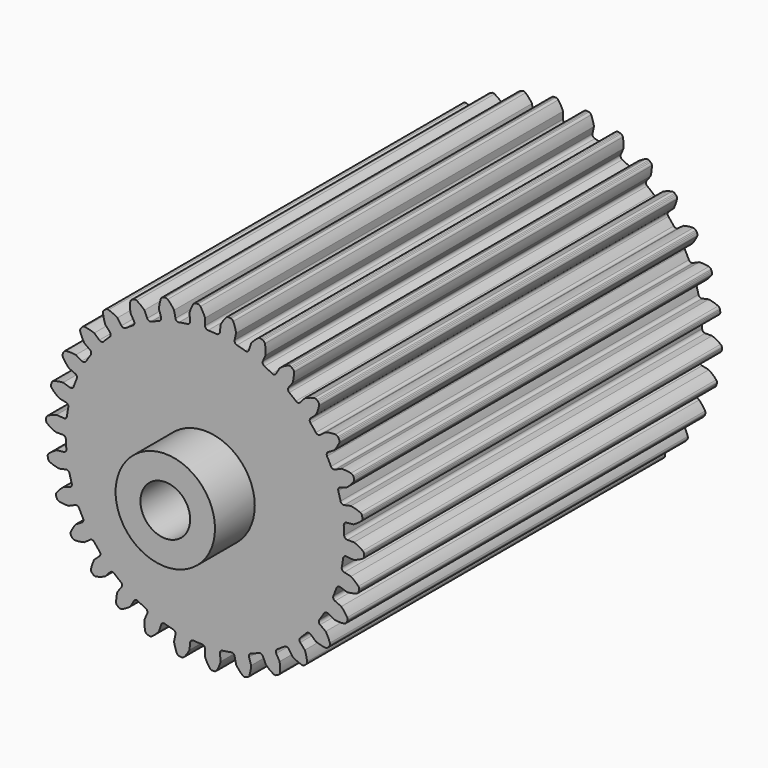
from build123d import *

# Parameters (mm, degrees)
F1_DEPTH  = 114.3
F2_R      = 12.7
F2_R_2    = 6.35
F3_DEPTH  = 12.7
F3_FACE_R = 6.35
F4_DEPTH  = 114.301


with BuildPart() as f1:
    # F0 (on Front) → F1 (new body)
    with BuildSketch(Plane.XZ):
        with BuildLine():
            ThreePointArc((-3.798446, 36.139802), (-3.964276, 35.568627), (-4.482282, 35.276377))
            ThreePointArc((-4.482282, 35.276377), (-5.56281, 35.122197), (-6.638096, 34.934929))
            ThreePointArc((-6.638096, 34.934929), (-9.203605, 34.348322), (-11.718705, 33.573584))
            ThreePointArc((-11.718705, 33.573584), (-12.743564, 33.19812), (-13.756418, 32.791379))
            ThreePointArc((-13.756418, 32.791379), (-16.143902, 31.684192), (-18.442964, 30.403465))
            ThreePointArc((-18.442964, 30.403465), (-19.367364, 29.823125), (-20.273518, 29.214689))
            ThreePointArc((-20.273518, 29.214689), (-22.378633, 27.63531), (-24.361176, 25.904569))
            ThreePointArc((-24.361176, 25.904569), (-25.144717, 25.144717), (-25.904569, 24.361176))
            ThreePointArc((-25.904569, 24.361176), (-27.63531, 22.378633), (-29.214689, 20.273518))
            ThreePointArc((-29.214689, 20.273518), (-29.823125, 19.367364), (-30.403465, 18.442964))
            ThreePointArc((-30.403465, 18.442964), (-31.684192, 16.143902), (-32.791379, 13.756418))
            ThreePointArc((-32.791379, 13.756418), (-33.19812, 12.743564), (-33.573584, 11.718705))
            ThreePointArc((-33.573584, 11.718705), (-34.348322, 9.203605), (-34.934929, 6.638096))
            ThreePointArc((-34.934929, 6.638096), (-35.122197, 5.56281), (-35.276377, 4.482282))
            ThreePointArc((-35.276377, 4.482282), (-35.511266, 1.861067), (-35.551655, -0.770342))
            ThreePointArc((-35.551655, -0.770342), (-35.511266, -1.861067), (-35.437422, -2.950037))
            ThreePointArc((-35.437422, -2.950037), (-35.122197, -5.56281), (-34.614603, -8.145113))
            ThreePointArc((-34.614603, -8.145113), (-34.348322, -9.203605), (-34.049682, -10.253426))
            ThreePointArc((-34.049682, -10.253426), (-33.19812, -12.743564), (-32.164726, -15.163904))
            ThreePointArc((-32.164726, -15.163904), (-31.684192, -16.143902), (-31.173808, -17.108691))
            ThreePointArc((-31.173808, -17.108691), (-29.823125, -19.367364), (-28.309097, -21.519959))
            ThreePointArc((-28.309097, -21.519959), (-27.63531, -22.378633), (-26.935488, -23.216224))
            ThreePointArc((-26.935488, -23.216224), (-25.144717, -25.144717), (-23.216224, -26.935488))
            ThreePointArc((-23.216224, -26.935488), (-22.378633, -27.63531), (-21.519959, -28.309097))
            ThreePointArc((-21.519959, -28.309097), (-19.367364, -29.823125), (-17.108691, -31.173808))
            ThreePointArc((-17.108691, -31.173808), (-16.143902, -31.684192), (-15.163904, -32.164726))
            ThreePointArc((-15.163904, -32.164726), (-12.743564, -33.19812), (-10.253426, -34.049682))
            ThreePointArc((-10.253426, -34.049682), (-9.203605, -34.348322), (-8.145113, -34.614603))
            ThreePointArc((-8.145113, -34.614603), (-5.56281, -35.122197), (-2.950037, -35.437422))
            ThreePointArc((-2.950037, -35.437422), (-1.861067, -35.511266), (-0.770342, -35.551655))
            ThreePointArc((-0.770342, -35.551655), (1.861067, -35.511266), (4.482282, -35.276377))
            ThreePointArc((4.482282, -35.276377), (5.56281, -35.122197), (6.638096, -34.934929))
            ThreePointArc((6.638096, -34.934929), (9.203605, -34.348322), (11.718705, -33.573584))
            ThreePointArc((11.718705, -33.573584), (12.743564, -33.19812), (13.756418, -32.791379))
            ThreePointArc((13.756418, -32.791379), (16.143902, -31.684192), (18.442964, -30.403465))
            ThreePointArc((18.442964, -30.403465), (19.367364, -29.823125), (20.273518, -29.214689))
            ThreePointArc((20.273518, -29.214689), (22.378633, -27.63531), (24.361176, -25.904569))
            ThreePointArc((24.361176, -25.904569), (25.144717, -25.144717), (25.904569, -24.361176))
            ThreePointArc((25.904569, -24.361176), (27.63531, -22.378633), (29.214689, -20.273518))
            ThreePointArc((29.214689, -20.273518), (29.823125, -19.367364), (30.403465, -18.442964))
            ThreePointArc((30.403465, -18.442964), (31.684192, -16.143902), (32.791379, -13.756418))
            ThreePointArc((32.791379, -13.756418), (33.19812, -12.743564), (33.573584, -11.718705))
            ThreePointArc((33.573584, -11.718705), (34.348322, -9.203605), (34.934929, -6.638096))
            ThreePointArc((34.934929, -6.638096), (35.122197, -5.56281), (35.276377, -4.482282))
            ThreePointArc((35.276377, -4.482282), (35.511266, -1.861067), (35.551655, 0.770342))
            ThreePointArc((35.551655, 0.770342), (35.511266, 1.861067), (35.437422, 2.950037))
            ThreePointArc((35.437422, 2.950037), (35.122197, 5.56281), (34.614603, 8.145113))
            ThreePointArc((34.614603, 8.145113), (34.348322, 9.203605), (34.049682, 10.253426))
            ThreePointArc((34.049682, 10.253426), (33.19812, 12.743564), (32.164726, 15.163904))
            ThreePointArc((32.164726, 15.163904), (31.684192, 16.143902), (31.173808, 17.108691))
            ThreePointArc((31.173808, 17.108691), (29.823125, 19.367364), (28.309097, 21.519959))
            ThreePointArc((28.309097, 21.519959), (27.63531, 22.378633), (26.935488, 23.216224))
            ThreePointArc((26.935488, 23.216224), (25.144717, 25.144717), (23.216224, 26.935488))
            ThreePointArc((23.216224, 26.935488), (22.378633, 27.63531), (21.519959, 28.309097))
            ThreePointArc((21.519959, 28.309097), (19.367364, 29.823125), (17.108691, 31.173808))
            ThreePointArc((17.108691, 31.173808), (16.143902, 31.684192), (15.163904, 32.164726))
            ThreePointArc((15.163904, 32.164726), (12.743564, 33.19812), (10.253426, 34.049682))
            ThreePointArc((10.253426, 34.049682), (9.203605, 34.348322), (8.145113, 34.614603))
            ThreePointArc((8.145113, 34.614603), (5.56281, 35.122197), (2.950037, 35.437422))
            ThreePointArc((2.950037, 35.437422), (1.861067, 35.511266), (0.770342, 35.551655))
            ThreePointArc((0.770342, 35.551655), (0.224626, 35.788158), (0, 36.33887))
            Line((0, 36.33887), (0, 38.1))
            ThreePointArc((0, 38.1), (-0.524228, 39.234637), (-1.19251, 40.290864))
            ThreePointArc((-1.19251, 40.290864), (-1.471894, 40.528951), (-1.828853, 40.614511))
            Line((-1.828853, 40.614511), (-2.128516, 40.614511))
            Line((-2.128516, 40.614511), (-2.426538, 40.583188))
            ThreePointArc((-2.426538, 40.583188), (-2.772598, 40.460784), (-3.025564, 40.194798))
            ThreePointArc((-3.025564, 40.194798), (-3.57978, 39.074503), (-3.982534, 37.891284))
            Line((-3.982534, 37.891284), (-3.798446, 36.139802))
        make_face()
        with BuildLine():
            ThreePointArc((-11.718705, 33.573584), (-9.203605, 34.348322), (-6.638096, 34.934929))
            ThreePointArc((-6.638096, 34.934929), (-7.221059, 35.052803), (-7.555276, 35.544779))
            Line((-7.555276, 35.544779), (-7.921435, 37.267424))
            ThreePointArc((-7.921435, 37.267424), (-8.670112, 38.268273), (-9.543393, 39.162475))
            ThreePointArc((-9.543393, 39.162475), (-9.866172, 39.337272), (-10.23312, 39.346747))
            Line((-10.23312, 39.346747), (-10.526235, 39.284443))
            Line((-10.526235, 39.284443), (-10.811231, 39.191842))
            ThreePointArc((-10.811231, 39.191842), (-11.12428, 39.000163), (-11.316417, 38.687395))
            ThreePointArc((-11.316417, 38.687395), (-11.625599, 37.476353), (-11.773547, 36.235253))
            Line((-11.773547, 36.235253), (-11.229328, 34.560319))
            ThreePointArc((-11.229328, 34.560319), (-11.272781, 33.967148), (-11.718705, 33.573584))
        make_face()
        with BuildLine():
            ThreePointArc((-18.442964, 30.403465), (-16.143902, 31.684192), (-13.756418, 32.791379))
            ThreePointArc((-13.756418, 32.791379), (-14.35115, 32.785473), (-14.78035, 33.19721))
            Line((-14.78035, 33.19721), (-15.496666, 34.806082))
            ThreePointArc((-15.496666, 34.806082), (-16.437071, 35.629402), (-17.477183, 36.322498))
            ThreePointArc((-17.477183, 36.322498), (-17.829251, 36.426366), (-18.19015, 36.35934))
            Line((-18.19015, 36.35934), (-18.463906, 36.237456))
            Line((-18.463906, 36.237456), (-18.723422, 36.087625))
            ThreePointArc((-18.723422, 36.087625), (-18.989778, 35.835048), (-19.112688, 35.489167))
            ThreePointArc((-19.112688, 35.489167), (-19.163324, 34.240306), (-19.05, 32.995568))
            Line((-19.05, 32.995568), (-18.169435, 31.470385))
            ThreePointArc((-18.169435, 31.470385), (-18.088611, 30.881141), (-18.442964, 30.403465))
        make_face()
        with BuildLine():
            ThreePointArc((-24.361176, 25.904569), (-22.378633, 27.63531), (-20.273518, 29.214689))
            ThreePointArc((-20.273518, 29.214689), (-20.854026, 29.08526), (-21.359452, 29.398764))
            Line((-21.359452, 29.398764), (-22.394618, 30.823547))
            ThreePointArc((-22.394618, 30.823547), (-23.48565, 31.433355), (-24.647137, 31.895054))
            ThreePointArc((-24.647137, 31.895054), (-25.013107, 31.923452), (-25.352184, 31.782857))
            Line((-25.352184, 31.782857), (-25.594616, 31.606719))
            Line((-25.594616, 31.606719), (-25.81731, 31.406205))
            ThreePointArc((-25.81731, 31.406205), (-26.025331, 31.103769), (-26.073642, 30.739892))
            ThreePointArc((-26.073642, 30.739892), (-25.863519, 29.507795), (-25.493876, 28.313818))
            Line((-25.493876, 28.313818), (-24.31545, 27.005043))
            ThreePointArc((-24.31545, 27.005043), (-24.113881, 26.445481), (-24.361176, 25.904569))
        make_face()
        with BuildLine():
            ThreePointArc((-29.214689, 20.273518), (-27.63531, 22.378633), (-25.904569, 24.361176))
            ThreePointArc((-25.904569, 24.361176), (-26.445481, 24.113881), (-27.005043, 24.31545))
            Line((-27.005043, 24.31545), (-28.313818, 25.493876))
            ThreePointArc((-28.313818, 25.493876), (-29.507795, 25.863519), (-30.739892, 26.073642))
            ThreePointArc((-30.739892, 26.073642), (-31.103769, 26.025331), (-31.406205, 25.81731))
            Line((-31.406205, 25.81731), (-31.606719, 25.594616))
            Line((-31.606719, 25.594616), (-31.782857, 25.352184))
            ThreePointArc((-31.782857, 25.352184), (-31.923452, 25.013107), (-31.895054, 24.647137))
            ThreePointArc((-31.895054, 24.647137), (-31.433355, 23.48565), (-30.823547, 22.394618))
            Line((-30.823547, 22.394618), (-29.398764, 21.359452))
            ThreePointArc((-29.398764, 21.359452), (-29.08526, 20.854026), (-29.214689, 20.273518))
        make_face()
        with BuildLine():
            ThreePointArc((-32.791379, 13.756418), (-31.684192, 16.143902), (-30.403465, 18.442964))
            ThreePointArc((-30.403465, 18.442964), (-30.881141, 18.088611), (-31.470385, 18.169435))
            Line((-31.470385, 18.169435), (-32.995568, 19.05))
            ThreePointArc((-32.995568, 19.05), (-34.240306, 19.163324), (-35.489167, 19.112688))
            ThreePointArc((-35.489167, 19.112688), (-35.835048, 18.989778), (-36.087625, 18.723422))
            Line((-36.087625, 18.723422), (-36.237456, 18.463906))
            Line((-36.237456, 18.463906), (-36.35934, 18.19015))
            ThreePointArc((-36.35934, 18.19015), (-36.426366, 17.829251), (-36.322498, 17.477183))
            ThreePointArc((-36.322498, 17.477183), (-35.629402, 16.437071), (-34.806082, 15.496666))
            Line((-34.806082, 15.496666), (-33.19721, 14.78035))
            ThreePointArc((-33.19721, 14.78035), (-32.785473, 14.35115), (-32.791379, 13.756418))
        make_face()
        with BuildLine():
            ThreePointArc((-34.934929, 6.638096), (-34.348322, 9.203605), (-33.573584, 11.718705))
            ThreePointArc((-33.573584, 11.718705), (-33.967148, 11.272781), (-34.560319, 11.229328))
            Line((-34.560319, 11.229328), (-36.235253, 11.773547))
            ThreePointArc((-36.235253, 11.773547), (-37.476353, 11.625599), (-38.687395, 11.316417))
            ThreePointArc((-38.687395, 11.316417), (-39.000163, 11.12428), (-39.191842, 10.811231))
            Line((-39.191842, 10.811231), (-39.284443, 10.526235))
            Line((-39.284443, 10.526235), (-39.346747, 10.23312))
            ThreePointArc((-39.346747, 10.23312), (-39.337272, 9.866172), (-39.162475, 9.543393))
            ThreePointArc((-39.162475, 9.543393), (-38.268273, 8.670112), (-37.267424, 7.921435))
            Line((-37.267424, 7.921435), (-35.544779, 7.555276))
            ThreePointArc((-35.544779, 7.555276), (-35.052803, 7.221059), (-34.934929, 6.638096))
        make_face()
        with BuildLine():
            ThreePointArc((3.798446, 36.139802), (3.517486, 35.615587), (2.950037, 35.437422))
            ThreePointArc((2.950037, 35.437422), (5.56281, 35.122197), (8.145113, 34.614603))
            ThreePointArc((8.145113, 34.614603), (7.660494, 34.959399), (7.555276, 35.544779))
            Line((7.555276, 35.544779), (7.921435, 37.267424))
            ThreePointArc((7.921435, 37.267424), (7.644568, 38.486259), (7.21049, 39.658349))
            ThreePointArc((7.21049, 39.658349), (6.986713, 39.94932), (6.655343, 40.107226))
            Line((6.655343, 40.107226), (6.362229, 40.16953))
            Line((6.362229, 40.16953), (6.064207, 40.200853))
            ThreePointArc((6.064207, 40.200853), (5.70026, 40.153074), (5.39752, 39.945495))
            ThreePointArc((5.39752, 39.945495), (4.622492, 38.964909), (3.982534, 37.891284))
            Line((3.982534, 37.891284), (3.798446, 36.139802))
        make_face()
        with BuildLine():
            ThreePointArc((-35.551655, -0.770342), (-35.511266, 1.861067), (-35.276377, 4.482282))
            ThreePointArc((-35.276377, 4.482282), (-35.568627, 3.964276), (-36.139802, 3.798446))
            Line((-36.139802, 3.798446), (-37.891284, 3.982534))
            ThreePointArc((-37.891284, 3.982534), (-39.074503, 3.57978), (-40.194798, 3.025564))
            ThreePointArc((-40.194798, 3.025564), (-40.460784, 2.772598), (-40.583188, 2.426538))
            Line((-40.583188, 2.426538), (-40.614511, 2.128516))
            Line((-40.614511, 2.128516), (-40.614511, 1.828853))
            ThreePointArc((-40.614511, 1.828853), (-40.528951, 1.471894), (-40.290864, 1.19251))
            ThreePointArc((-40.290864, 1.19251), (-39.234637, 0.524228), (-38.1, 0))
            Line((-38.1, 0), (-36.33887, 0))
            ThreePointArc((-36.33887, 0), (-35.788158, -0.224626), (-35.551655, -0.770342))
        make_face()
        with BuildLine():
            ThreePointArc((11.229328, 34.560319), (10.845517, 34.105974), (10.253426, 34.049682))
            ThreePointArc((10.253426, 34.049682), (12.743564, 33.19812), (15.163904, 32.164726))
            ThreePointArc((15.163904, 32.164726), (14.761561, 32.602746), (14.78035, 33.19721))
            Line((14.78035, 33.19721), (15.496666, 34.806082))
            ThreePointArc((15.496666, 34.806082), (15.479259, 36.055847), (15.298358, 37.292573))
            ThreePointArc((15.298358, 37.292573), (15.139967, 37.623712), (14.848669, 37.847064))
            Line((14.848669, 37.847064), (14.574913, 37.968948))
            Line((14.574913, 37.968948), (14.289917, 38.061549))
            ThreePointArc((14.289917, 38.061549), (13.923989, 38.090482), (13.584707, 37.950383))
            ThreePointArc((13.584707, 37.950383), (12.62274, 37.152362), (11.773547, 36.235253))
            Line((11.773547, 36.235253), (11.229328, 34.560319))
        make_face()
        with BuildLine():
            ThreePointArc((-34.614603, -8.145113), (-35.122197, -5.56281), (-35.437422, -2.950037))
            ThreePointArc((-35.437422, -2.950037), (-35.615587, -3.517486), (-36.139802, -3.798446))
            Line((-36.139802, -3.798446), (-37.891284, -3.982534))
            ThreePointArc((-37.891284, -3.982534), (-38.964909, -4.622492), (-39.945495, -5.39752))
            ThreePointArc((-39.945495, -5.39752), (-40.153074, -5.70026), (-40.200853, -6.064207))
            Line((-40.200853, -6.064207), (-40.16953, -6.362229))
            Line((-40.16953, -6.362229), (-40.107226, -6.655343))
            ThreePointArc((-40.107226, -6.655343), (-39.94932, -6.986713), (-39.658349, -7.21049))
            ThreePointArc((-39.658349, -7.21049), (-38.486259, -7.644568), (-37.267424, -7.921435))
            Line((-37.267424, -7.921435), (-35.544779, -7.555276))
            ThreePointArc((-35.544779, -7.555276), (-34.959399, -7.660494), (-34.614603, -8.145113))
        make_face()
        with BuildLine():
            ThreePointArc((18.169435, 31.470385), (17.699548, 31.105767), (17.108691, 31.173808))
            ThreePointArc((17.108691, 31.173808), (19.367364, 29.823125), (21.519959, 28.309097))
            ThreePointArc((21.519959, 28.309097), (21.217478, 28.821196), (21.359452, 29.398764))
            Line((21.359452, 29.398764), (22.394618, 30.823547))
            ThreePointArc((22.394618, 30.823547), (22.637432, 32.049622), (22.717614, 33.296934))
            ThreePointArc((22.717614, 33.296934), (22.631532, 33.653767), (22.393037, 33.932802))
            Line((22.393037, 33.932802), (22.150605, 34.10894))
            Line((22.150605, 34.10894), (21.891089, 34.258772))
            ThreePointArc((21.891089, 34.258772), (21.539173, 34.363154), (21.178176, 34.296657))
            ThreePointArc((21.178176, 34.296657), (20.071313, 33.716079), (19.05, 32.995568))
            Line((19.05, 32.995568), (18.169435, 31.470385))
        make_face()
        with BuildLine():
            ThreePointArc((-32.164726, -15.163904), (-33.19812, -12.743564), (-34.049682, -10.253426))
            ThreePointArc((-34.049682, -10.253426), (-34.105974, -10.845517), (-34.560319, -11.229328))
            Line((-34.560319, -11.229328), (-36.235253, -11.773547))
            ThreePointArc((-36.235253, -11.773547), (-37.152362, -12.62274), (-37.950383, -13.584707))
            ThreePointArc((-37.950383, -13.584707), (-38.090482, -13.923989), (-38.061549, -14.289917))
            Line((-38.061549, -14.289917), (-37.968948, -14.574913))
            Line((-37.968948, -14.574913), (-37.847064, -14.848669))
            ThreePointArc((-37.847064, -14.848669), (-37.623712, -15.139967), (-37.292573, -15.298358))
            ThreePointArc((-37.292573, -15.298358), (-36.055847, -15.479259), (-34.806082, -15.496666))
            Line((-34.806082, -15.496666), (-33.19721, -14.78035))
            ThreePointArc((-33.19721, -14.78035), (-32.602746, -14.761561), (-32.164726, -15.163904))
        make_face()
        with BuildLine():
            ThreePointArc((24.31545, 27.005043), (23.780023, 26.746088), (23.216224, 26.935488))
            ThreePointArc((23.216224, 26.935488), (25.144717, 25.144717), (26.935488, 23.216224))
            ThreePointArc((26.935488, 23.216224), (26.746088, 23.780023), (27.005043, 24.31545))
            Line((27.005043, 24.31545), (28.313818, 25.493876))
            ThreePointArc((28.313818, 25.493876), (28.806241, 26.642674), (29.144002, 27.846058))
            ThreePointArc((29.144002, 27.846058), (29.133991, 28.212992), (28.958722, 28.535515))
            Line((28.958722, 28.535515), (28.758208, 28.758208))
            Line((28.758208, 28.758208), (28.535515, 28.958722))
            ThreePointArc((28.535515, 28.958722), (28.212992, 29.133991), (27.846058, 29.144002))
            ThreePointArc((27.846058, 29.144002), (26.642674, 28.806241), (25.493876, 28.313818))
            Line((25.493876, 28.313818), (24.31545, 27.005043))
        make_face()
        with BuildLine():
            ThreePointArc((-28.309097, -21.519959), (-29.823125, -19.367364), (-31.173808, -17.108691))
            ThreePointArc((-31.173808, -17.108691), (-31.105767, -17.699548), (-31.470385, -18.169435))
            Line((-31.470385, -18.169435), (-32.995568, -19.05))
            ThreePointArc((-32.995568, -19.05), (-33.716079, -20.071313), (-34.296657, -21.178176))
            ThreePointArc((-34.296657, -21.178176), (-34.363154, -21.539173), (-34.258772, -21.891089))
            Line((-34.258772, -21.891089), (-34.10894, -22.150605))
            Line((-34.10894, -22.150605), (-33.932802, -22.393037))
            ThreePointArc((-33.932802, -22.393037), (-33.653767, -22.631532), (-33.296934, -22.717614))
            ThreePointArc((-33.296934, -22.717614), (-32.049622, -22.637432), (-30.823547, -22.394618))
            Line((-30.823547, -22.394618), (-29.398764, -21.359452))
            ThreePointArc((-29.398764, -21.359452), (-28.821196, -21.217478), (-28.309097, -21.519959))
        make_face()
        with BuildLine():
            ThreePointArc((29.398764, 21.359452), (28.821196, 21.217478), (28.309097, 21.519959))
            ThreePointArc((28.309097, 21.519959), (29.823125, 19.367364), (31.173808, 17.108691))
            ThreePointArc((31.173808, 17.108691), (31.105767, 17.699548), (31.470385, 18.169435))
            Line((31.470385, 18.169435), (32.995568, 19.05))
            ThreePointArc((32.995568, 19.05), (33.716079, 20.071313), (34.296657, 21.178176))
            ThreePointArc((34.296657, 21.178176), (34.363154, 21.539173), (34.258772, 21.891089))
            Line((34.258772, 21.891089), (34.10894, 22.150605))
            Line((34.10894, 22.150605), (33.932802, 22.393037))
            ThreePointArc((33.932802, 22.393037), (33.653767, 22.631532), (33.296934, 22.717614))
            ThreePointArc((33.296934, 22.717614), (32.049622, 22.637432), (30.823547, 22.394618))
            Line((30.823547, 22.394618), (29.398764, 21.359452))
        make_face()
        with BuildLine():
            ThreePointArc((-23.216224, -26.935488), (-25.144717, -25.144717), (-26.935488, -23.216224))
            ThreePointArc((-26.935488, -23.216224), (-26.746088, -23.780023), (-27.005043, -24.31545))
            Line((-27.005043, -24.31545), (-28.313818, -25.493876))
            ThreePointArc((-28.313818, -25.493876), (-28.806241, -26.642674), (-29.144002, -27.846058))
            ThreePointArc((-29.144002, -27.846058), (-29.133991, -28.212992), (-28.958722, -28.535515))
            Line((-28.958722, -28.535515), (-28.758208, -28.758208))
            Line((-28.758208, -28.758208), (-28.535515, -28.958722))
            ThreePointArc((-28.535515, -28.958722), (-28.212992, -29.133991), (-27.846058, -29.144002))
            ThreePointArc((-27.846058, -29.144002), (-26.642674, -28.806241), (-25.493876, -28.313818))
            Line((-25.493876, -28.313818), (-24.31545, -27.005043))
            ThreePointArc((-24.31545, -27.005043), (-23.780023, -26.746088), (-23.216224, -26.935488))
        make_face()
        with BuildLine():
            ThreePointArc((33.19721, 14.78035), (32.602746, 14.761561), (32.164726, 15.163904))
            ThreePointArc((32.164726, 15.163904), (33.19812, 12.743564), (34.049682, 10.253426))
            ThreePointArc((34.049682, 10.253426), (34.105974, 10.845517), (34.560319, 11.229328))
            Line((34.560319, 11.229328), (36.235253, 11.773547))
            ThreePointArc((36.235253, 11.773547), (37.152362, 12.62274), (37.950383, 13.584707))
            ThreePointArc((37.950383, 13.584707), (38.090482, 13.923989), (38.061549, 14.289917))
            Line((38.061549, 14.289917), (37.968948, 14.574913))
            Line((37.968948, 14.574913), (37.847064, 14.848669))
            ThreePointArc((37.847064, 14.848669), (37.623712, 15.139967), (37.292573, 15.298358))
            ThreePointArc((37.292573, 15.298358), (36.055847, 15.479259), (34.806082, 15.496666))
            Line((34.806082, 15.496666), (33.19721, 14.78035))
        make_face()
        with BuildLine():
            ThreePointArc((-17.108691, -31.173808), (-19.367364, -29.823125), (-21.519959, -28.309097))
            ThreePointArc((-21.519959, -28.309097), (-21.217478, -28.821196), (-21.359452, -29.398764))
            Line((-21.359452, -29.398764), (-22.394618, -30.823547))
            ThreePointArc((-22.394618, -30.823547), (-22.637432, -32.049622), (-22.717614, -33.296934))
            ThreePointArc((-22.717614, -33.296934), (-22.631532, -33.653767), (-22.393037, -33.932802))
            Line((-22.393037, -33.932802), (-22.150605, -34.10894))
            Line((-22.150605, -34.10894), (-21.891089, -34.258772))
            ThreePointArc((-21.891089, -34.258772), (-21.539173, -34.363154), (-21.178176, -34.296657))
            ThreePointArc((-21.178176, -34.296657), (-20.071313, -33.716079), (-19.05, -32.995568))
            Line((-19.05, -32.995568), (-18.169435, -31.470385))
            ThreePointArc((-18.169435, -31.470385), (-17.699548, -31.105767), (-17.108691, -31.173808))
        make_face()
        with BuildLine():
            ThreePointArc((35.544779, 7.555276), (34.959399, 7.660494), (34.614603, 8.145113))
            ThreePointArc((34.614603, 8.145113), (35.122197, 5.56281), (35.437422, 2.950037))
            ThreePointArc((35.437422, 2.950037), (35.615587, 3.517486), (36.139802, 3.798446))
            Line((36.139802, 3.798446), (37.891284, 3.982534))
            ThreePointArc((37.891284, 3.982534), (38.964909, 4.622492), (39.945495, 5.39752))
            ThreePointArc((39.945495, 5.39752), (40.153074, 5.70026), (40.200853, 6.064207))
            Line((40.200853, 6.064207), (40.16953, 6.362229))
            Line((40.16953, 6.362229), (40.107226, 6.655343))
            ThreePointArc((40.107226, 6.655343), (39.94932, 6.986713), (39.658349, 7.21049))
            ThreePointArc((39.658349, 7.21049), (38.486259, 7.644568), (37.267424, 7.921435))
            Line((37.267424, 7.921435), (35.544779, 7.555276))
        make_face()
        with BuildLine():
            ThreePointArc((-10.253426, -34.049682), (-12.743564, -33.19812), (-15.163904, -32.164726))
            ThreePointArc((-15.163904, -32.164726), (-14.761561, -32.602746), (-14.78035, -33.19721))
            Line((-14.78035, -33.19721), (-15.496666, -34.806082))
            ThreePointArc((-15.496666, -34.806082), (-15.479259, -36.055847), (-15.298358, -37.292573))
            ThreePointArc((-15.298358, -37.292573), (-15.139967, -37.623712), (-14.848669, -37.847064))
            Line((-14.848669, -37.847064), (-14.574913, -37.968948))
            Line((-14.574913, -37.968948), (-14.289917, -38.061549))
            ThreePointArc((-14.289917, -38.061549), (-13.923989, -38.090482), (-13.584707, -37.950383))
            ThreePointArc((-13.584707, -37.950383), (-12.62274, -37.152362), (-11.773547, -36.235253))
            Line((-11.773547, -36.235253), (-11.229328, -34.560319))
            ThreePointArc((-11.229328, -34.560319), (-10.845517, -34.105974), (-10.253426, -34.049682))
        make_face()
        with BuildLine():
            ThreePointArc((36.33887, 0), (35.788158, 0.224626), (35.551655, 0.770342))
            ThreePointArc((35.551655, 0.770342), (35.511266, -1.861067), (35.276377, -4.482282))
            ThreePointArc((35.276377, -4.482282), (35.568627, -3.964276), (36.139802, -3.798446))
            Line((36.139802, -3.798446), (37.891284, -3.982534))
            ThreePointArc((37.891284, -3.982534), (39.074503, -3.57978), (40.194798, -3.025564))
            ThreePointArc((40.194798, -3.025564), (40.460784, -2.772598), (40.583188, -2.426538))
            Line((40.583188, -2.426538), (40.614511, -2.128516))
            Line((40.614511, -2.128516), (40.614511, -1.828853))
            ThreePointArc((40.614511, -1.828853), (40.528951, -1.471894), (40.290864, -1.19251))
            ThreePointArc((40.290864, -1.19251), (39.234637, -0.524228), (38.1, 0))
            Line((38.1, 0), (36.33887, 0))
        make_face()
        with BuildLine():
            ThreePointArc((-2.950037, -35.437422), (-5.56281, -35.122197), (-8.145113, -34.614603))
            ThreePointArc((-8.145113, -34.614603), (-7.660494, -34.959399), (-7.555276, -35.544779))
            Line((-7.555276, -35.544779), (-7.921435, -37.267424))
            ThreePointArc((-7.921435, -37.267424), (-7.644568, -38.486259), (-7.21049, -39.658349))
            ThreePointArc((-7.21049, -39.658349), (-6.986713, -39.94932), (-6.655343, -40.107226))
            Line((-6.655343, -40.107226), (-6.362229, -40.16953))
            Line((-6.362229, -40.16953), (-6.064207, -40.200853))
            ThreePointArc((-6.064207, -40.200853), (-5.70026, -40.153074), (-5.39752, -39.945495))
            ThreePointArc((-5.39752, -39.945495), (-4.622492, -38.964909), (-3.982534, -37.891284))
            Line((-3.982534, -37.891284), (-3.798446, -36.139802))
            ThreePointArc((-3.798446, -36.139802), (-3.517486, -35.615587), (-2.950037, -35.437422))
        make_face()
        with BuildLine():
            ThreePointArc((35.544779, -7.555276), (35.052803, -7.221059), (34.934929, -6.638096))
            ThreePointArc((34.934929, -6.638096), (34.348322, -9.203605), (33.573584, -11.718705))
            ThreePointArc((33.573584, -11.718705), (33.967148, -11.272781), (34.560319, -11.229328))
            Line((34.560319, -11.229328), (36.235253, -11.773547))
            ThreePointArc((36.235253, -11.773547), (37.476353, -11.625599), (38.687395, -11.316417))
            ThreePointArc((38.687395, -11.316417), (39.000163, -11.12428), (39.191842, -10.811231))
            Line((39.191842, -10.811231), (39.284443, -10.526235))
            Line((39.284443, -10.526235), (39.346747, -10.23312))
            ThreePointArc((39.346747, -10.23312), (39.337272, -9.866172), (39.162475, -9.543393))
            ThreePointArc((39.162475, -9.543393), (38.268273, -8.670112), (37.267424, -7.921435))
            Line((37.267424, -7.921435), (35.544779, -7.555276))
        make_face()
        with BuildLine():
            ThreePointArc((4.482282, -35.276377), (1.861067, -35.511266), (-0.770342, -35.551655))
            ThreePointArc((-0.770342, -35.551655), (-0.224626, -35.788158), (0, -36.33887))
            Line((0, -36.33887), (0, -38.1))
            ThreePointArc((0, -38.1), (0.524228, -39.234637), (1.19251, -40.290864))
            ThreePointArc((1.19251, -40.290864), (1.471894, -40.528951), (1.828853, -40.614511))
            Line((1.828853, -40.614511), (2.128516, -40.614511))
            Line((2.128516, -40.614511), (2.426538, -40.583188))
            ThreePointArc((2.426538, -40.583188), (2.772598, -40.460784), (3.025564, -40.194798))
            ThreePointArc((3.025564, -40.194798), (3.57978, -39.074503), (3.982534, -37.891284))
            Line((3.982534, -37.891284), (3.798446, -36.139802))
            ThreePointArc((3.798446, -36.139802), (3.964276, -35.568627), (4.482282, -35.276377))
        make_face()
        with BuildLine():
            ThreePointArc((33.19721, -14.78035), (32.785473, -14.35115), (32.791379, -13.756418))
            ThreePointArc((32.791379, -13.756418), (31.684192, -16.143902), (30.403465, -18.442964))
            ThreePointArc((30.403465, -18.442964), (30.881141, -18.088611), (31.470385, -18.169435))
            Line((31.470385, -18.169435), (32.995568, -19.05))
            ThreePointArc((32.995568, -19.05), (34.240306, -19.163324), (35.489167, -19.112688))
            ThreePointArc((35.489167, -19.112688), (35.835048, -18.989778), (36.087625, -18.723422))
            Line((36.087625, -18.723422), (36.237456, -18.463906))
            Line((36.237456, -18.463906), (36.35934, -18.19015))
            ThreePointArc((36.35934, -18.19015), (36.426366, -17.829251), (36.322498, -17.477183))
            ThreePointArc((36.322498, -17.477183), (35.629402, -16.437071), (34.806082, -15.496666))
            Line((34.806082, -15.496666), (33.19721, -14.78035))
        make_face()
        with BuildLine():
            ThreePointArc((11.718705, -33.573584), (9.203605, -34.348322), (6.638096, -34.934929))
            ThreePointArc((6.638096, -34.934929), (7.221059, -35.052803), (7.555276, -35.544779))
            Line((7.555276, -35.544779), (7.921435, -37.267424))
            ThreePointArc((7.921435, -37.267424), (8.670112, -38.268273), (9.543393, -39.162475))
            ThreePointArc((9.543393, -39.162475), (9.866172, -39.337272), (10.23312, -39.346747))
            Line((10.23312, -39.346747), (10.526235, -39.284443))
            Line((10.526235, -39.284443), (10.811231, -39.191842))
            ThreePointArc((10.811231, -39.191842), (11.12428, -39.000163), (11.316417, -38.687395))
            ThreePointArc((11.316417, -38.687395), (11.625599, -37.476353), (11.773547, -36.235253))
            Line((11.773547, -36.235253), (11.229328, -34.560319))
            ThreePointArc((11.229328, -34.560319), (11.272781, -33.967148), (11.718705, -33.573584))
        make_face()
        with BuildLine():
            ThreePointArc((29.398764, -21.359452), (29.08526, -20.854026), (29.214689, -20.273518))
            ThreePointArc((29.214689, -20.273518), (27.63531, -22.378633), (25.904569, -24.361176))
            ThreePointArc((25.904569, -24.361176), (26.445481, -24.113881), (27.005043, -24.31545))
            Line((27.005043, -24.31545), (28.313818, -25.493876))
            ThreePointArc((28.313818, -25.493876), (29.507795, -25.863519), (30.739892, -26.073642))
            ThreePointArc((30.739892, -26.073642), (31.103769, -26.025331), (31.406205, -25.81731))
            Line((31.406205, -25.81731), (31.606719, -25.594616))
            Line((31.606719, -25.594616), (31.782857, -25.352184))
            ThreePointArc((31.782857, -25.352184), (31.923452, -25.013107), (31.895054, -24.647137))
            ThreePointArc((31.895054, -24.647137), (31.433355, -23.48565), (30.823547, -22.394618))
            Line((30.823547, -22.394618), (29.398764, -21.359452))
        make_face()
        with BuildLine():
            ThreePointArc((18.442964, -30.403465), (16.143902, -31.684192), (13.756418, -32.791379))
            ThreePointArc((13.756418, -32.791379), (14.35115, -32.785473), (14.78035, -33.19721))
            Line((14.78035, -33.19721), (15.496666, -34.806082))
            ThreePointArc((15.496666, -34.806082), (16.437071, -35.629402), (17.477183, -36.322498))
            ThreePointArc((17.477183, -36.322498), (17.829251, -36.426366), (18.19015, -36.35934))
            Line((18.19015, -36.35934), (18.463906, -36.237456))
            Line((18.463906, -36.237456), (18.723422, -36.087625))
            ThreePointArc((18.723422, -36.087625), (18.989778, -35.835048), (19.112688, -35.489167))
            ThreePointArc((19.112688, -35.489167), (19.163324, -34.240306), (19.05, -32.995568))
            Line((19.05, -32.995568), (18.169435, -31.470385))
            ThreePointArc((18.169435, -31.470385), (18.088611, -30.881141), (18.442964, -30.403465))
        make_face()
        with BuildLine():
            ThreePointArc((24.31545, -27.005043), (24.113881, -26.445481), (24.361176, -25.904569))
            ThreePointArc((24.361176, -25.904569), (22.378633, -27.63531), (20.273518, -29.214689))
            ThreePointArc((20.273518, -29.214689), (20.854026, -29.08526), (21.359452, -29.398764))
            Line((21.359452, -29.398764), (22.394618, -30.823547))
            ThreePointArc((22.394618, -30.823547), (23.48565, -31.433355), (24.647137, -31.895054))
            ThreePointArc((24.647137, -31.895054), (25.013107, -31.923452), (25.352184, -31.782857))
            Line((25.352184, -31.782857), (25.594616, -31.606719))
            Line((25.594616, -31.606719), (25.81731, -31.406205))
            ThreePointArc((25.81731, -31.406205), (26.025331, -31.103769), (26.073642, -30.739892))
            ThreePointArc((26.073642, -30.739892), (25.863519, -29.507795), (25.493876, -28.313818))
            Line((25.493876, -28.313818), (24.31545, -27.005043))
        make_face()
    extrude(amount=F1_DEPTH)

    # F2 (on face) → F3 (join)
    with BuildSketch(Plane.XZ.offset(114.3)):
        Circle(F2_R)
        Circle(F2_R_2, mode=Mode.SUBTRACT)
    extrude(amount=F3_DEPTH)

    # F3_face (on face) → F4 (cut, through all)
    with BuildSketch(Plane.XZ.offset(114.3)):
        Circle(F3_FACE_R)
    extrude(amount=-F4_DEPTH, mode=Mode.SUBTRACT)


solid = f1.part
